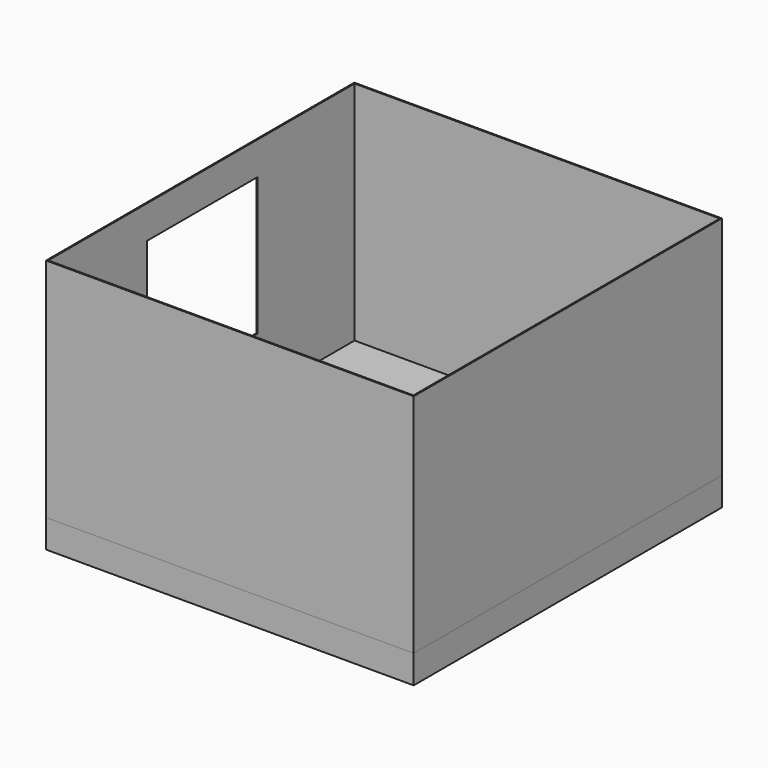
from build123d import *

# Parameters (mm, degrees)
F2_W     = 3962.4
F2_H     = 4152.9
F3_DEPTH = 304.8
F4_DEPTH = 2438.4
F5_W     = 3937
F5_H     = 4127.5
F6_DEPTH = 2438.4
F7_W     = 1485.9
F7_H     = 1485.9
F8_DEPTH = 12.7


with BuildPart() as f3:
    # F2 (on Top) → F3 (new body)
    with BuildSketch(Plane.XY):
        with Locations((1981.2, 2076.45)):
            Rectangle(F2_W, F2_H)
    extrude(amount=-F3_DEPTH)


with BuildPart() as f4:
    # F2 (on Top) → F4 (new body)
    with BuildSketch(Plane.XY):
        with Locations((1981.2, 2076.45)):
            Rectangle(F2_W, F2_H)
    extrude(amount=F4_DEPTH)

    # F5 (on face) → F6 (cut, through all)
    with BuildSketch(Plane.XY.offset(2438.4)):
        with Locations((1981.2, 2076.45)):
            Rectangle(F5_W, F5_H)
    extrude(amount=-F6_DEPTH, mode=Mode.SUBTRACT)

    # F7 (on face) → F8 (cut, through all)
    with BuildSketch(Plane.YZ.offset(12.7)):
        with Locations((2089.15, 1339.85)):
            Rectangle(F7_W, F7_H)
    extrude(amount=-F8_DEPTH, mode=Mode.SUBTRACT)


solid = Compound([f3.part, f4.part])
